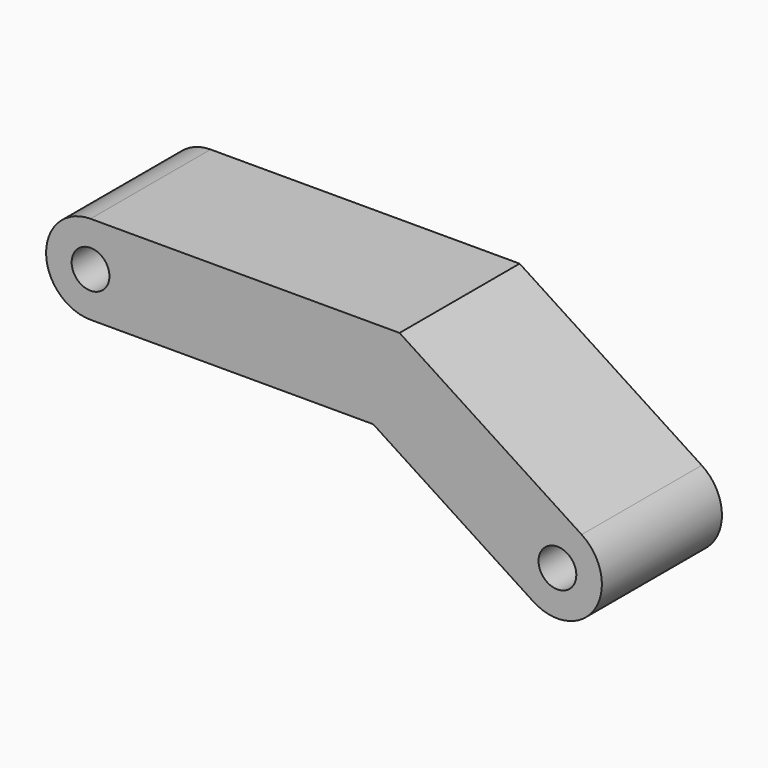
from build123d import *

# Parameters (mm, degrees)
SKETCH007_R  = 1.7
PAD007_DEPTH = 13.5


with BuildPart() as obj1:
    # Sketch007 → Pad007 (new body)
    with BuildSketch(Plane(origin=(0, 19.25, 0), x_dir=(-1, 0, 0), z_dir=(0, 1, 0))):
        with BuildLine():
            ThreePointArc((59, 33), (55, 29), (59, 25))
            Line((59, 25), (84.428048, 25))
            Line((84.428048, 25), (98.820237, 15.646102))
            ThreePointArc((98.820237, 15.646102), (104.353886, 16.820218), (103.1798, 22.353874))
            Line((86.799351, 33), (103.1798, 22.353874))
            Line((59, 33), (86.799351, 33))
        make_face()
        with Locations((59, 29)):
            Circle(SKETCH007_R, mode=Mode.SUBTRACT)
        with Locations((101, 19)):
            Circle(SKETCH007_R, mode=Mode.SUBTRACT)
    extrude(amount=PAD007_DEPTH)


with BuildPart() as part_mirroring014:
    # Part__Mirroring014: instance of obj1
    add(obj1.part.mirror(Plane(origin=(0, 0, 0), x_dir=(0, -1, 0), z_dir=(1, 0, 0))))


with BuildPart() as part_mirroring022:
    # Part__Mirroring022: instance of Part__Mirroring014
    add(part_mirroring014.part.mirror(Plane(origin=(67.968658, 4e-06, 24.002777), x_dir=(1, 0, 0), z_dir=(0, 1, 0))))


solid = part_mirroring022.part
